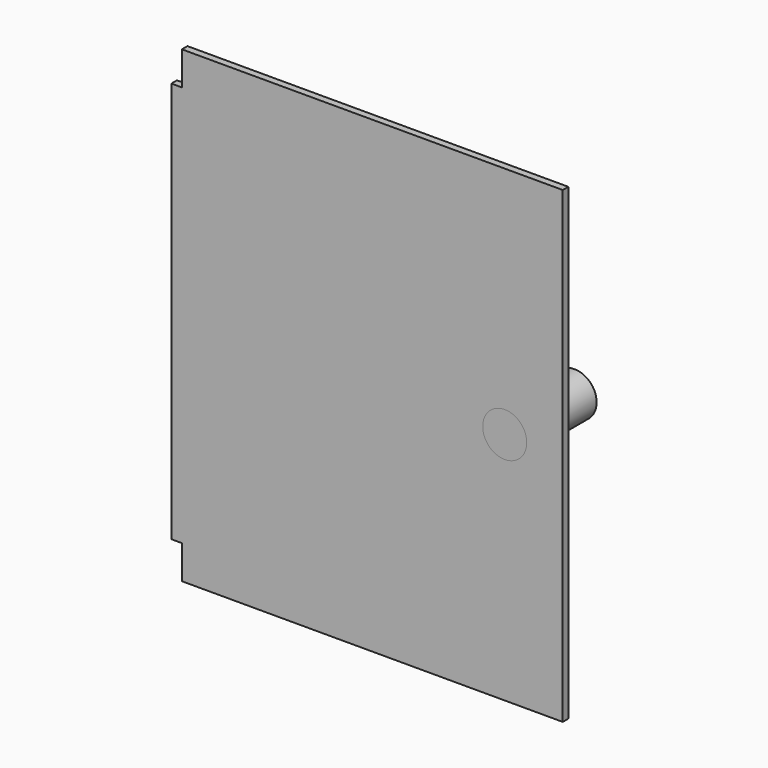
from build123d import *

# Parameters (mm, degrees)
F0_R     = 3.15
F1_DEPTH = 12.5
F2_DEPTH = 1


with BuildPart() as f1:
    # F0 (on Front) → F1 (new body)
    with BuildSketch(Plane.XZ):
        with Locations((19.7, 0)):
            Circle(F0_R)
    extrude(amount=-F1_DEPTH)


with BuildPart() as f2:
    # F0 (on Front) → F2 (new body)
    with BuildSketch(Plane.XZ):
        Polygon((-26.5, -33.5), (28, -33.5), (28, 33.5), (-26.5, 33.5), (-26.5, 28.7), (-28, 28.7), (-28, -28.7), (-26.5, -28.7), align=None)
        with Locations((19.7, 0)):
            Circle(F0_R, mode=Mode.SUBTRACT)
    extrude(amount=-F2_DEPTH)


solid = Compound([f1.part, f2.part])
